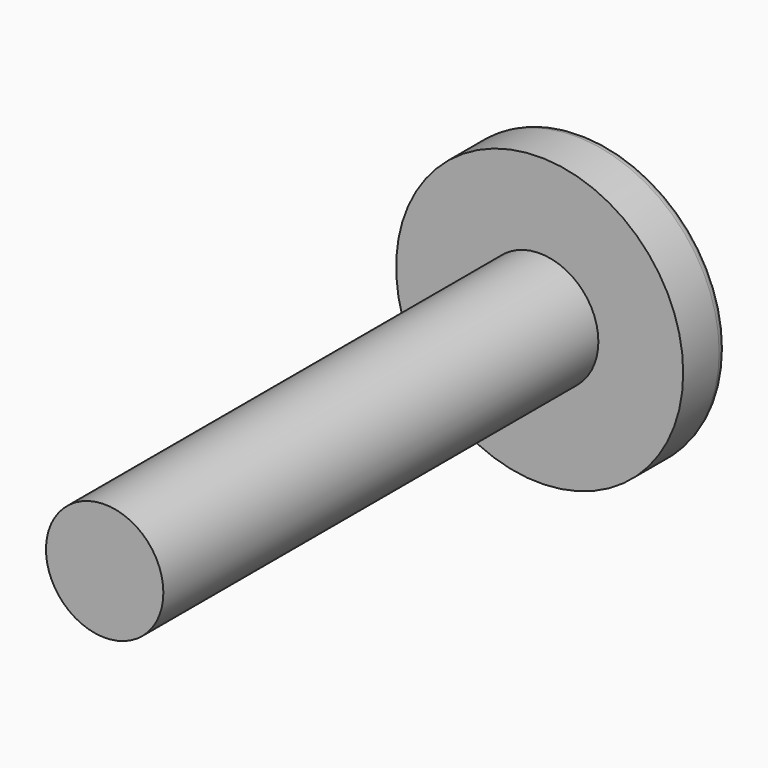
from build123d import *

# Parameters (mm, degrees)
F0_R     = 7.47149
F1_DEPTH = 76.2
F2_R     = 18.271136
F3_DEPTH = 6.985
F4_R     = 1.27


with BuildPart() as f1:
    # F0 (on Front) → F1 (new body)
    with BuildSketch(Plane.XZ):
        Circle(F0_R)
    extrude(amount=F1_DEPTH)

    # F2 (on Front) → F3 (join)
    with BuildSketch(Plane.XZ):
        Circle(F2_R)
    extrude(amount=F3_DEPTH)

    # F4
    f4_edges = [f1.edges().sort_by_distance(p)[0] for p in [
        (-18.271136, 0, 0),
    ]]
    fillet(f4_edges, radius=F4_R)


solid = f1.part
